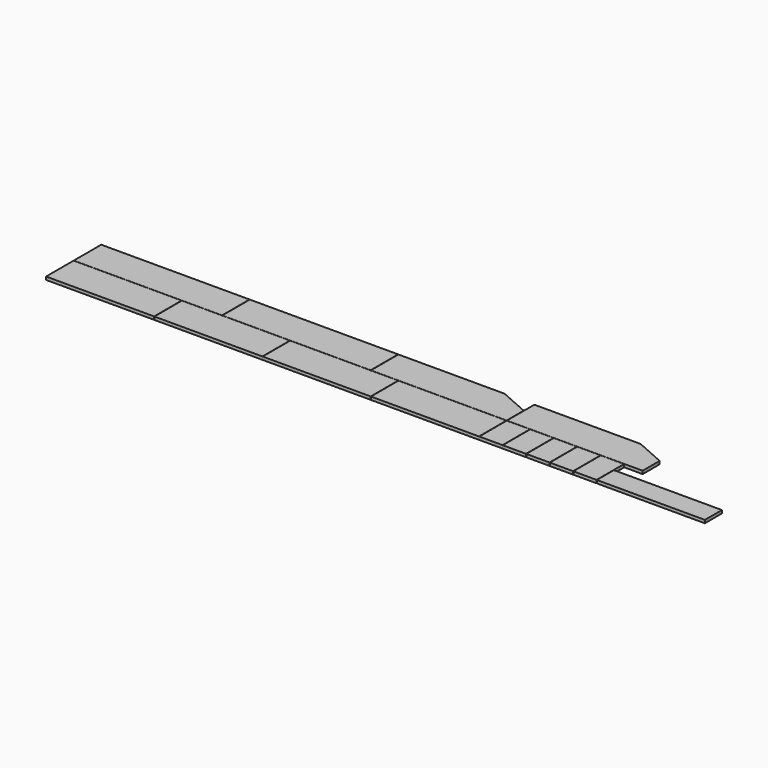
from build123d import *

# Parameters (mm, degrees)
F0_W     = 928
F0_H     = 295
F0_W_2   = 1274
F0_W_3   = 200
F0_H_2   = 183
F1_DEPTH = 26


with BuildPart() as f1:
    # F0 (on Top) → F1 (new body)
    with BuildSketch(Plane.XY):
        with Locations((464, 147.5)):
            Rectangle(F0_W, F0_H)
        with Locations((1394, 147.5)):
            Rectangle(F0_W, F0_H)
        with Locations((2324, 147.5)):
            Rectangle(F0_W, F0_H)
        with Locations((3254, 147.5)):
            Rectangle(F0_W, F0_H)
        with Locations((637, 444.5)):
            Rectangle(F0_W_2, F0_H)
        with Locations((1913, 444.5)):
            Rectangle(F0_W_2, F0_H)
        Polygon((2552, 592), (2552, 297), (3718, 297), (3718, 480), (3464, 592), align=None)
        with Locations((3820, 147.5)):
            Rectangle(F0_W_3, F0_H)
        with Locations((4022, 147.5)):
            Rectangle(F0_W_3, F0_H)
        with Locations((4224, 147.5)):
            Rectangle(F0_W_3, F0_H)
        with Locations((4426, 147.5)):
            Rectangle(F0_W_3, F0_H)
        with Locations((4628, 147.5)):
            Rectangle(F0_W_3, F0_H)
        with Locations((5194, 91.5)):
            Rectangle(F0_W, F0_H_2)
        Polygon((4886, 297), (4886, 480), (4632, 592), (3720, 592), (3720, 297), align=None)
    extrude(amount=F1_DEPTH)


solid = f1.part
